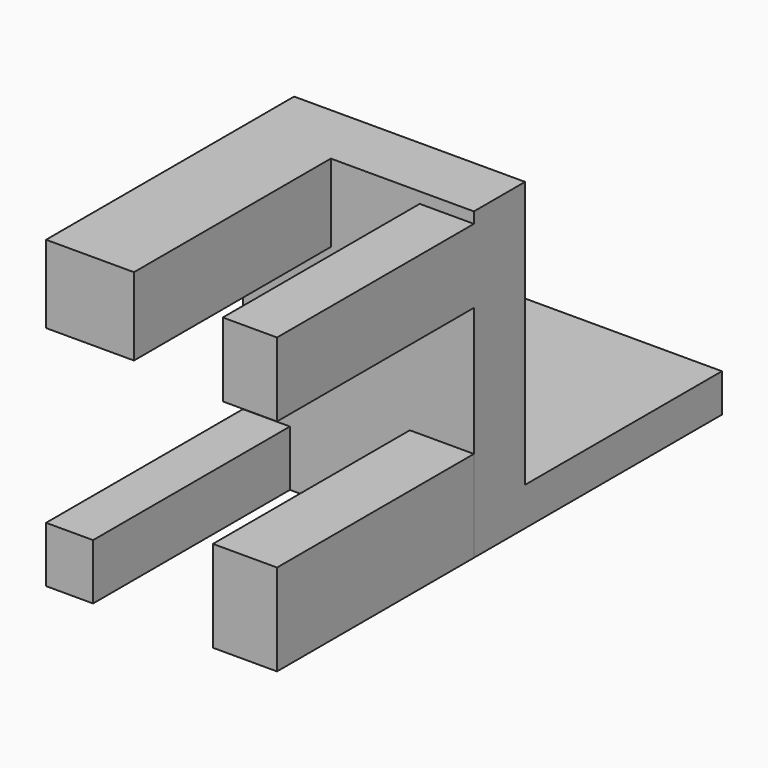
from build123d import *

# Parameters (mm, degrees)
F0_W     = 23.838157
F0_H     = 31.479819
F1_DEPTH = 6.604
F2_W     = 5.593037
F2_H     = 7.631736
F2_W_2   = 4.849982
F2_H_2   = 5.757882
F2_W_3   = 6.612232
F2_H_3   = 9.442479
F2_W_4   = 9.072362
F2_H_4   = 8.029943
F3_DEPTH = 25.4
F4_W     = 23.838157
F4_H     = 3.94789
F5_DEPTH = 25.4


with BuildPart() as f1:
    # F0 (on Front) → F1 (new body)
    with BuildSketch(Plane.XZ):
        with Locations((11.919078, 14.669469)):
            Rectangle(F0_W, F0_H)
    extrude(amount=F1_DEPTH)

    # F2 (on face) → F3 (join)
    with BuildSketch(Plane.XZ.offset(6.604)):
        with Locations((21.041638, 25.461429)):
            Rectangle(F2_W, F2_H)
        with Locations((2.424991, 1.808501)):
            Rectangle(F2_W_2, F2_H_2)
        with Locations((20.532041, 3.650799)):
            Rectangle(F2_W_3, F2_H_3)
        with Locations((4.536181, 26.394407)):
            Rectangle(F2_W_4, F2_H_4)
    extrude(amount=F3_DEPTH)

    # F4 (on face) → F5 (join)
    with BuildSketch(Plane(origin=(0, 0, 0), x_dir=(-1, 0, 0), z_dir=(0, 1, 0))):
        with Locations((-11.919078, 0.903505)):
            Rectangle(F4_W, F4_H)
    extrude(amount=F5_DEPTH)


solid = f1.part
